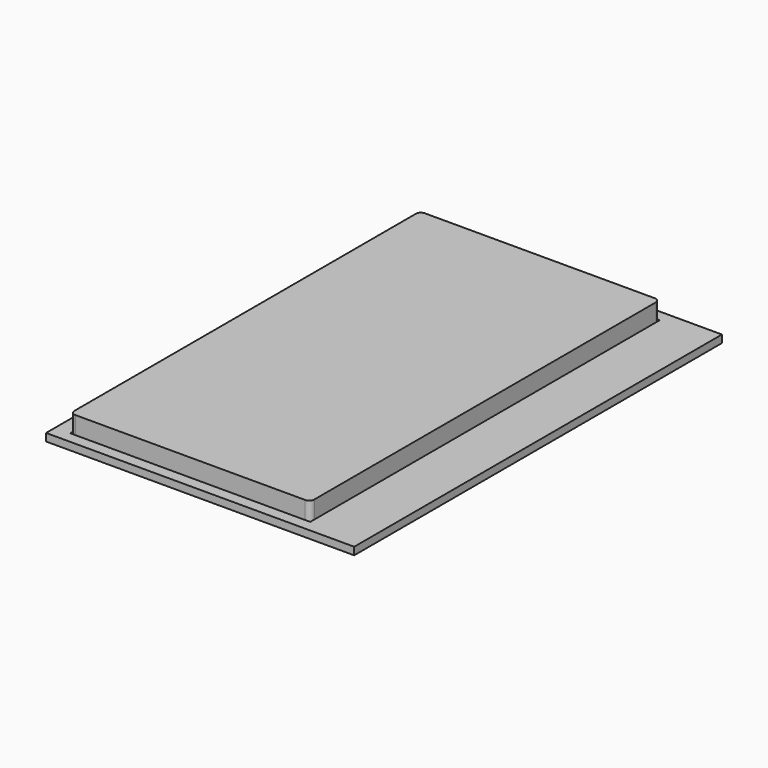
from build123d import *

# Parameters (mm, degrees)
BOX001_W     = 95
BOX001_H     = 173
BOX001_DEPTH = 10
BOX_W        = 122
BOX_H        = 182
BOX_DEPTH    = 3
FILLET_R     = 2


with BuildPart() as cube001:
    # Box001 → Box001 (new body)
    with BuildSketch(Plane(origin=(6, 4.5, 0), x_dir=(1, 0, 0), z_dir=(0, 0, 1))):
        with Locations((47.5, 86.5)):
            Rectangle(BOX001_W, BOX001_H)
    extrude(amount=BOX001_DEPTH)


with BuildPart() as cut:
    # Box → Box (new body)
    with BuildSketch(Plane.XY):
        with Locations((61, 91)):
            Rectangle(BOX_W, BOX_H)
    extrude(amount=BOX_DEPTH)

    # Cut: cut Cube001
    add(cube001.part, mode=Mode.SUBTRACT)


with BuildPart() as fillet_body:
    # Fillet base: copy of Cube001
    add(cube001.part)

    # Fillet
    fillet_edges = [fillet_body.edges().sort_by_distance(p)[0] for p in [
        (6, 4.5, 5),
        (6, 177.5, 5),
        (101, 4.5, 5),
        (101, 177.5, 5),
    ]]
    fillet(fillet_edges, radius=FILLET_R)


solid = Compound([cut.part, fillet_body.part])
